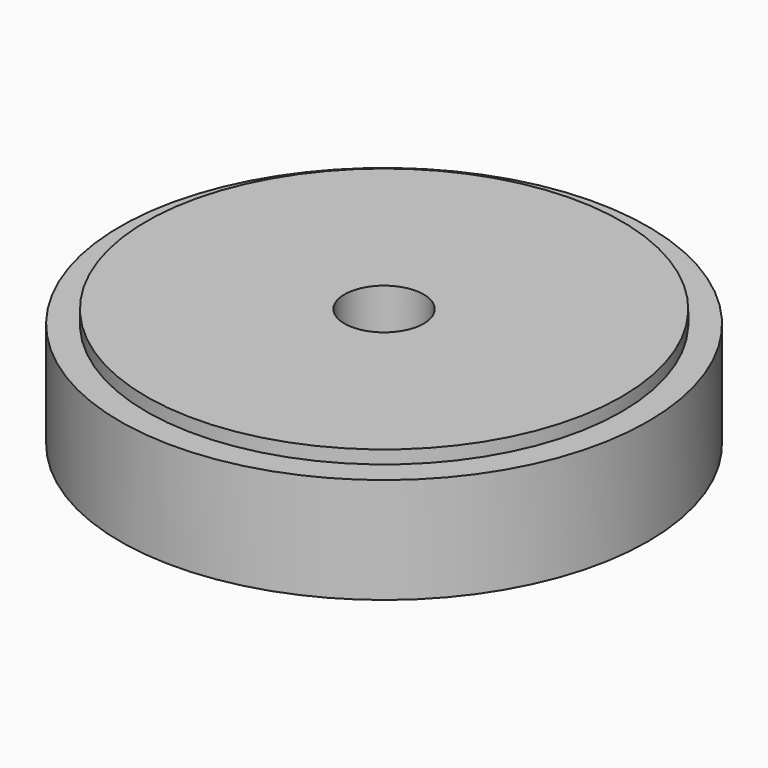
from build123d import *

# Parameters (mm, degrees)
F0_R     = 2
F0_R_2   = 0.3
F1_DEPTH = 1
F2_R     = 2.010367
F2_R_2   = 1.8
F3_DEPTH = 0.1
F4_R     = 2
F4_R_2   = 1.8
F5_DEPTH = 0.1


with BuildPart() as f1:
    # F0 (on Top) → F1 (new body)
    with BuildSketch(Plane.XY):
        Circle(F0_R)
        Circle(F0_R_2, mode=Mode.SUBTRACT)
    extrude(amount=F1_DEPTH)

    # F2 (on face) → F3 (cut)
    with BuildSketch(Plane.XY.offset(1)):
        Circle(F2_R)
        Circle(F2_R_2, mode=Mode.SUBTRACT)
    extrude(amount=-F3_DEPTH, mode=Mode.SUBTRACT)

    # F4 (on face) → F5 (cut)
    with BuildSketch(Plane.XY):
        Circle(F4_R)
        Circle(F4_R_2, mode=Mode.SUBTRACT)
    extrude(amount=F5_DEPTH, mode=Mode.SUBTRACT)


solid = f1.part
